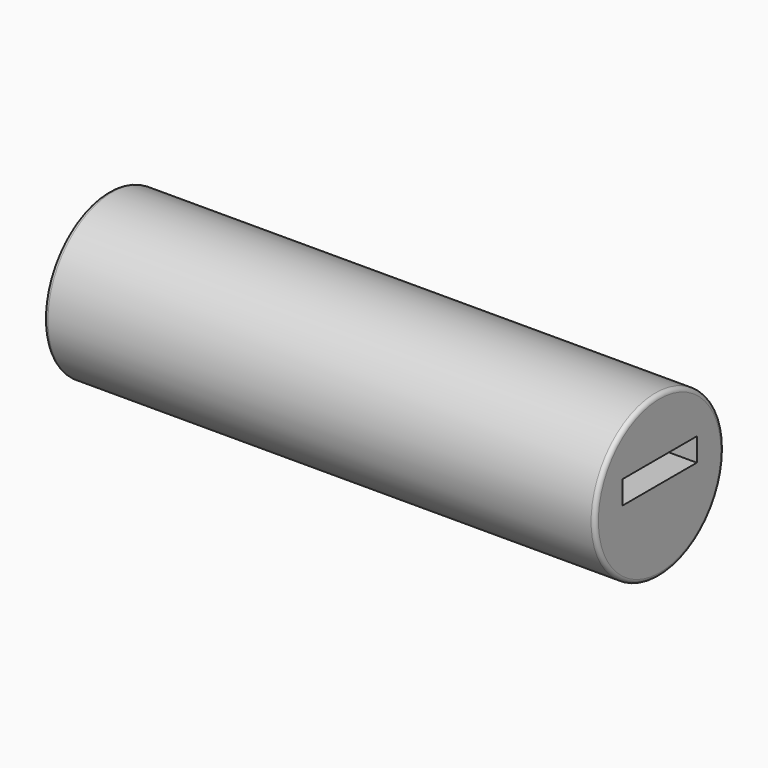
from build123d import *

# Parameters (mm, degrees)
F0_R     = 10.9855
F1_DEPTH = 37.592
F2_W     = 12.7
F2_H     = 3.175
F3_DEPTH = 10.922
F4_R     = 0.5518892204


with BuildPart() as f1:
    # F0 (on Right) → F1 (new body, symmetric)
    with BuildSketch(Plane.YZ):
        Circle(F0_R)
    extrude(amount=F1_DEPTH, both=True)

    # F2 (on face) → F3 (cut)
    with BuildSketch(Plane.YZ.offset(37.592)):
        with Locations((0, 1.778)):
            Rectangle(F2_W, F2_H)
    extrude(amount=-F3_DEPTH, mode=Mode.SUBTRACT)

    # F4
    f4_edges = [f1.edges().sort_by_distance(p)[0] for p in [
        (37.592, -10.9855, 0),
        (-37.592, -10.9855, 0),
    ]]
    fillet(f4_edges, radius=F4_R)


solid = f1.part
